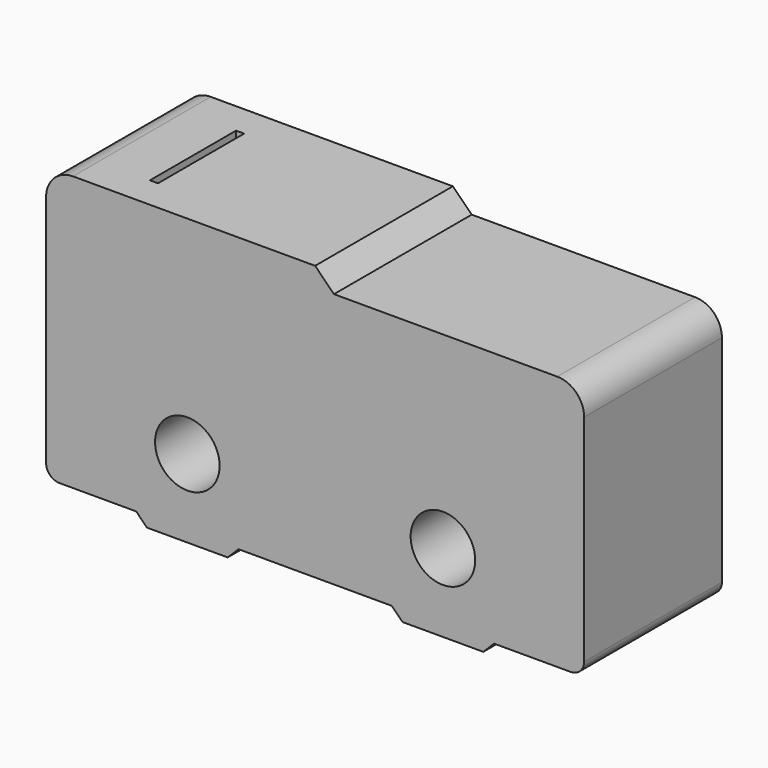
from build123d import *

# Parameters (mm, degrees)
F0_R     = 1.2
F1_DEPTH = 6.4
F2_W     = 0.5
F2_H     = 3.2
F3_DEPTH = 2
F4_W     = 0.3
F4_H     = 4
F5_DEPTH = 2


with BuildPart() as f1:
    # F0 (on Front) → F1 (new body)
    with BuildSketch(Plane.XZ):
        with BuildLine():
            ThreePointArc((0, 0.5), (0.146447, 0.146447), (0.5, 0))
            Line((0.5, 0), (3.35, 0))
            Line((3.35, 0), (3.75, -0.4))
            Line((3.75, -0.4), (6.75, -0.4))
            Line((6.75, -0.4), (7.15, 0))
            Line((7.15, 0), (12.85, 0))
            Line((12.85, 0), (13.25, -0.4))
            Line((13.25, -0.4), (16.25, -0.4))
            Line((16.25, -0.4), (16.65, 0))
            Line((16.65, 0), (19.5, 0))
            ThreePointArc((19.5, 0), (19.853553, 0.146447), (20, 0.5))
            Line((20, 0.5), (20, 8.5))
            ThreePointArc((20, 8.5), (19.707107, 9.207107), (19, 9.5))
            Line((19, 9.5), (10.7, 9.5))
            Line((10.7, 9.5), (10, 10.2))
            Line((10, 10.2), (1, 10.2))
            ThreePointArc((1, 10.2), (0.292893, 9.907107), (0, 9.2))
            Line((0, 9.2), (0, 0.5))
        make_face()
        with Locations((5.25, 2.5)):
            Circle(F0_R, mode=Mode.SUBTRACT)
        with Locations((14.75, 2.5)):
            Circle(F0_R, mode=Mode.SUBTRACT)
    extrude(amount=F1_DEPTH)

    # F2 (on face) → F3 (cut)
    with BuildSketch(Plane(origin=(0, 0, 0), x_dir=(1, 0, 0), z_dir=(0, 0, -1))):
        with Locations((1.9, 3.2)):
            Rectangle(F2_W, F2_H)
        with Locations((10.7, 3.2)):
            Rectangle(F2_W, F2_H)
        with Locations((18, 3.2)):
            Rectangle(F2_W, F2_H)
    extrude(amount=-F3_DEPTH, mode=Mode.SUBTRACT)

    # F4 (on face) → F5 (cut)
    with BuildSketch(Plane.XY.offset(10.2)):
        with Locations((3.05, -3.2)):
            Rectangle(F4_W, F4_H)
    extrude(amount=-F5_DEPTH, mode=Mode.SUBTRACT)


solid = f1.part
